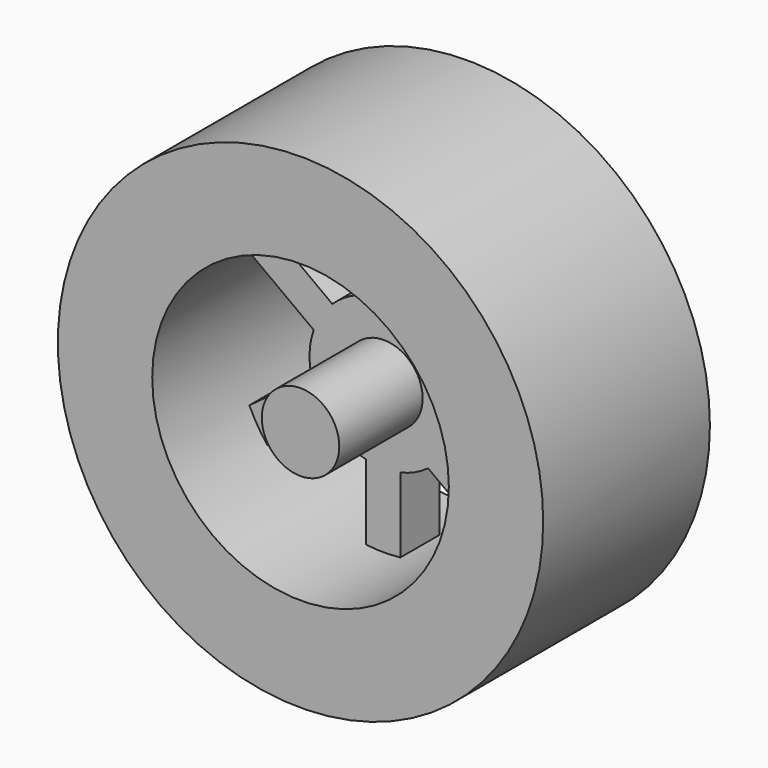
from build123d import *

# Parameters (mm, degrees)
F0_R      = 3.17
F0_R_2    = 1.57
F1_DEPTH  = 9.2
F2_R      = 6.07
F2_R_2    = 3.17
F3_DEPTH  = 2.7
F5_DEPTH  = 4
F6_R      = 19.8
F6_R_2    = 12.1
F7_DEPTH  = 8.5
F8_DEPTH  = 4.7
F9_R      = 3.1620005376
F10_DEPTH = 8.5
F11_DEPTH = 3


with BuildPart() as f1:
    # F0 (on Front) → F1 (new body)
    with BuildSketch(Plane.XZ):
        with Locations((-14.4947133958, -5.8518843725)):
            Circle(F0_R)
        with Locations((-14.4947133958, -5.8518843725)):
            Circle(F0_R_2, mode=Mode.SUBTRACT)
    extrude(amount=F1_DEPTH)

    # F8 (add): a face of the model
    f8_faces = [f1.faces().sort_by_distance(p)[0] for p in [
        (-17.575052256, 0, -5.8518843725),
    ]]
    extrude(f8_faces, amount=F8_DEPTH)

    # F9 (on face) → F10 (join, through all)
    with BuildSketch(Plane.XZ.offset(9.2)):
        with Locations((-14.4947133958, -5.8518843725)):
            Circle(F9_R)
    extrude(amount=F10_DEPTH)

    # F11 (add): a face of the model
    f11_faces = [f1.faces().sort_by_distance(p)[0] for p in [
        (-14.4947133958, -17.7, -5.8518843725),
    ]]


with BuildPart() as f3:
    # F2 (on face) → F3 (new body)
    with BuildSketch(Plane.XZ.offset(9.2)):
        with Locations((-14.4947133958, -5.8518843725)):
            Circle(F2_R)
        with Locations((-14.4947133958, -5.8518843725)):
            Circle(F2_R_2, mode=Mode.SUBTRACT)
    extrude(amount=-F3_DEPTH)


with BuildPart() as f5:
    # F4 (on face) → F5 (new body)
    with BuildSketch(Plane.XZ.offset(9.2)):
        with BuildLine():
            Line((-15.9479831574, 6.2612492848), (-15.9479831574, 0.0415787011))
            ThreePointArc((-15.9479831574, 0.0415787011), (-14.5494593079, 0.2178687431), (-13.1479831574, 0.0668331967))
            Line((-13.1479831574, 0.0668331967), (-13.1479831574, 6.2735565541))
            ThreePointArc((-13.1479831574, 6.2735565541), (-14.5483374083, 6.3479977771), (-15.9479831574, 6.2612492848))
        make_face()
    extrude(amount=-F5_DEPTH)


with BuildPart() as f5b:
    # F4 (on face) → F5, piece 2 (new body)
    with BuildSketch(Plane.XZ.offset(9.2)):
        with BuildLine():
            ThreePointArc((-9.3973258546, -2.5561992761), (-10.3108067194, -1.4541775926), (-11.4569494327, -0.5967069155))
            Line((-11.4569494327, -0.5967069155), (-11.6216113174, -0.7184141217))
            ThreePointArc((-11.6216113174, -0.7184141217), (-10.465246014, -1.5657876648), (-9.5481790309, -2.6676999957))
            Line((-9.5481790309, -2.6676999957), (-9.3973258546, -2.5561992761))
        make_face()
        with BuildLine():
            Line((-6.3175093497, 3.2020282617), (-11.4569494327, -0.5967069155))
            ThreePointArc((-11.4569494327, -0.5967069155), (-10.3108067194, -1.4541775926), (-9.3973258546, -2.5561992761))
            Line((-9.3973258546, -2.5561992761), (-4.4629317782, 1.0909794152))
            ThreePointArc((-4.4629317782, 1.0909794152), (-5.3292389654, 2.200076784), (-6.3175093497, 3.2020282617))
        make_face()
    extrude(amount=-F5_DEPTH)


with BuildPart() as f5c:
    # F4 (on face) → F5, piece 3 (new body)
    with BuildSketch(Plane.XZ.offset(9.2)):
        with BuildLine():
            ThreePointArc((-9.0762949538, -8.5878744286), (-9.8553405144, -9.7661045078), (-10.8856064508, -10.7323809722))
            Line((-10.8856064508, -10.7323809722), (-5.8464618601, -14.4569843356))
            ThreePointArc((-5.8464618601, -14.4569843356), (-4.9156940174, -13.4071730995), (-4.1116102126, -12.2574419818))
            Line((-4.1116102126, -12.2574419818), (-9.0762949538, -8.5878744286))
        make_face()
        with BuildLine():
            Line((-11.0433104475, -10.6158165779), (-10.8856064508, -10.7323809722))
            ThreePointArc((-10.8856064508, -10.7323809722), (-9.8553405144, -9.7661045078), (-9.0762949538, -8.5878744286))
            Line((-9.0762949538, -8.5878744286), (-9.2290879071, -8.4749399537))
            ThreePointArc((-9.2290879071, -8.4749399537), (-10.0066754756, -9.6551392938), (-11.0433104475, -10.6158165779))
        make_face()
    extrude(amount=-F5_DEPTH)


with BuildPart() as f5d:
    # F4 (on face) → F5, piece 4 (new body)
    with BuildSketch(Plane.XZ.offset(9.2)):
        with BuildLine():
            ThreePointArc((-13.1479831574, -11.7706019418), (-14.5494593079, -11.9216374882), (-15.9479831574, -11.7453474462))
            Line((-15.9479831574, -11.7453474462), (-15.9479831574, -17.9650180299))
            ThreePointArc((-15.9479831574, -17.9650180299), (-14.5483374083, -18.0517665222), (-13.1479831574, -17.9773252992))
            Line((-13.1479831574, -17.9773252992), (-13.1479831574, -11.7706019418))
        make_face()
    extrude(amount=-F5_DEPTH)


with BuildPart() as f5e:
    # F4 (on face) → F5, piece 5 (new body)
    with BuildSketch(Plane.XZ.offset(9.2)):
        with BuildLine():
            Line((-18.7000286708, -1.4746451241), (-23.6647134121, 2.1949224291))
            ThreePointArc((-23.6647134121, 2.1949224291), (-24.5279332831, 1.0889007916), (-25.2584622432, -0.1089138213))
            Line((-25.2584622432, -0.1089138213), (-20.2193176525, -3.8335171848))
            ThreePointArc((-20.2193176525, -3.8335171848), (-19.5978393815, -2.5650918366), (-18.7000286708, -1.4746451241))
        make_face()
    extrude(amount=-F5_DEPTH)


with BuildPart() as f5f:
    # F4 (on face) → F5, piece 6 (new body)
    with BuildSketch(Plane.XZ.offset(9.2)):
        with BuildLine():
            ThreePointArc((-19.1409038648, -9.7580095787), (-19.9264174704, -8.5614029362), (-20.4098807653, -7.214123335))
            Line((-20.4098807653, -7.214123335), (-25.5493208484, -11.0128585122))
            ThreePointArc((-25.5493208484, -11.0128585122), (-24.8814163191, -12.2516033027), (-24.0752979412, -13.4051882701))
            Line((-24.0752979412, -13.4051882701), (-19.1409038648, -9.7580095787))
        make_face()
        with BuildLine():
            Line((-20.2452188807, -7.0924161289), (-20.4098807653, -7.214123335))
            ThreePointArc((-20.4098807653, -7.214123335), (-19.9264174704, -8.5614029362), (-19.1409038648, -9.7580095787))
            Line((-19.1409038648, -9.7580095787), (-18.9900506885, -9.6465088591))
            ThreePointArc((-18.9900506885, -9.6465088591), (-19.774407608, -8.4465060011), (-20.2452188807, -7.0924161289))
        make_face()
    extrude(amount=-F5_DEPTH)


with BuildPart() as f7:
    # F6 (on face) → F7 (new body, symmetric)
    with BuildSketch(Plane.XZ.offset(9.2)):
        with Locations((-14.4947133958, -5.8518843725)):
            Circle(F6_R)
        with Locations((-14.4947133958, -5.8518843725)):
            Circle(F6_R_2, mode=Mode.SUBTRACT)
    extrude(amount=F7_DEPTH, both=True)


with BuildPart() as f1_1:
    add(f1.part)

    add(f3.part)  # F11 merges F3

    add(f5.part)  # F11 merges F5

    add(f5b.part)  # F11 merges F5b

    add(f5c.part)  # F11 merges F5c

    add(f5d.part)  # F11 merges F5d

    add(f5e.part)  # F11 merges F5e

    add(f5f.part)  # F11 merges F5f

    add(f7.part)  # F11 merges F7
    extrude(f11_faces, amount=-F11_DEPTH)


solid = f1_1.part
